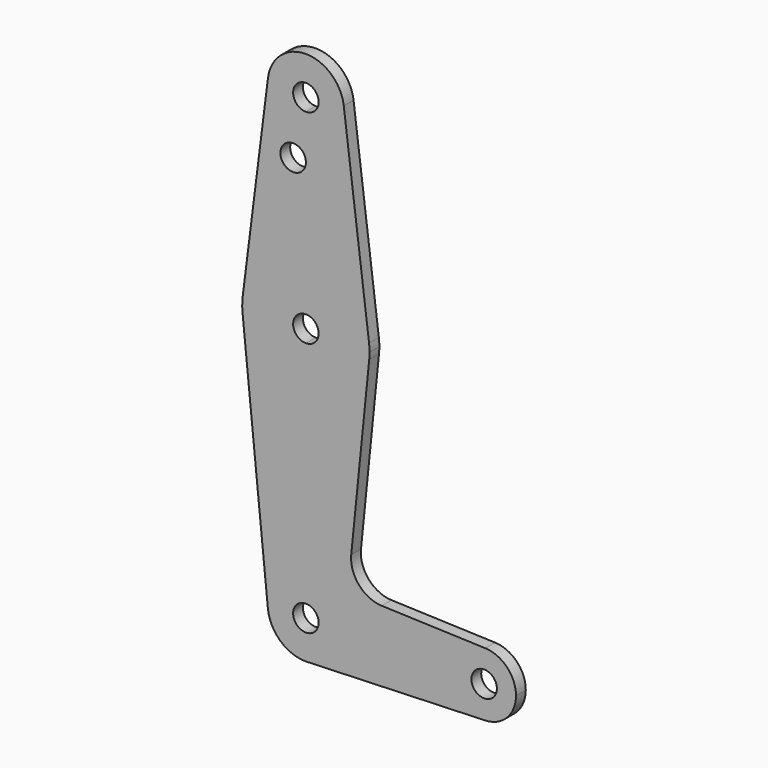
from build123d import *

# Parameters (mm, degrees)
F0_R     = 3.175
F1_DEPTH = 3.048


with BuildPart() as f1:
    # F0 (on Front) → F1 (new body)
    with BuildSketch(Plane.XZ):
        with BuildLine():
            ThreePointArc((-9.4502929642, 115.490625), (-7.14375, 107.9998046905), (0, 104.775))
            ThreePointArc((0, 104.775), (6.7351920908, 107.5648079092), (9.525, 114.3))
            ThreePointArc((9.525, 114.3), (9.5063048942, 114.896483242), (9.4502929642, 115.490625))
            ThreePointArc((9.4502929642, 115.490625), (0, 123.825), (-9.4502929642, 115.490625))
        make_face()
        with BuildLine():
            ThreePointArc((3.175, 114.3), (2.2450640303, 112.0549359697), (0, 111.125))
            ThreePointArc((0, 111.125), (-2.2450640303, 116.5450640303), (3.175, 114.3))
        make_face(mode=Mode.SUBTRACT)
        with BuildLine():
            ThreePointArc((9.525, 114.3), (6.7351920908, 107.5648079092), (0, 104.775))
            Line((0, 104.775), (0, 100.0252))
            Line((0, 100.0252), (0, 79.375))
            ThreePointArc((0, 79.375), (10.5003255158, 75.40625), (15.7504882737, 65.484375))
            Line((15.7504882737, 65.484375), (9.4502929642, 115.490625))
            ThreePointArc((9.4502929642, 115.490625), (9.5063048942, 114.896483242), (9.525, 114.3))
        make_face()
        with BuildLine():
            Line((0, 100.0252), (0, 104.775))
            ThreePointArc((0, 104.775), (-7.14375, 107.9998046905), (-9.4502929642, 115.490625))
            Line((-9.4502929642, 115.490625), (-15.7504882737, 65.484375))
            ThreePointArc((-15.7504882737, 65.484375), (-10.5003255158, 75.40625), (0, 79.375))
            Line((0, 79.375), (0, 100.0252))
        make_face()
        with Locations((-3.175, 100.0252)):
            Circle(F0_R, mode=Mode.SUBTRACT)
        with BuildLine():
            ThreePointArc((15.7504882737, 65.484375), (10.5003255158, 75.40625), (0, 79.375))
            Line((0, 79.375), (0, 66.675))
            ThreePointArc((0, 66.675), (2.2450640303, 65.7450640303), (3.175, 63.5))
            ThreePointArc((3.175, 63.5), (2.2450640303, 61.2549359697), (0, 60.325))
            Line((0, 60.325), (0, 47.625))
            ThreePointArc((0, 47.625), (10.644756084, 51.722700101), (15.7942028036, 61.9003804205))
            ThreePointArc((15.7942028036, 61.9003804205), (15.8547878338, 62.6991705884), (15.875, 63.5))
            ThreePointArc((15.875, 63.5), (15.8438414904, 64.4941387366), (15.7504882737, 65.484375))
        make_face()
        with BuildLine():
            Line((0, 66.675), (0, 79.375))
            ThreePointArc((0, 79.375), (-10.5003255158, 75.40625), (-15.7504882737, 65.484375))
            ThreePointArc((-15.7504882737, 65.484375), (-15.8737438155, 63.6997054867), (-15.7954255641, 61.9125))
            ThreePointArc((-15.7954255641, 61.9125), (-10.6492737428, 51.7267849017), (0, 47.625))
            Line((0, 47.625), (0, 60.325))
            ThreePointArc((0, 60.325), (-3.175, 63.5), (0, 66.675))
        make_face()
        with BuildLine():
            ThreePointArc((0, 47.625), (-10.6492737428, 51.7267849017), (-15.7954255641, 61.9125))
            Line((-15.7954255641, 61.9125), (-9.4772553384, -0.9525))
            ThreePointArc((-9.4772553384, -0.9525), (-7.063929059, 6.3895642457), (0, 9.525))
            Line((0, 9.525), (0, 47.625))
        make_face()
        with BuildLine():
            ThreePointArc((15.7942028036, 61.9003804205), (10.644756084, 51.722700101), (0, 47.625))
            Line((0, 47.625), (0, 9.525))
            ThreePointArc((0, 9.525), (6.7351920908, 6.7351920908), (9.525, 0))
            Line((9.525, 0), (36.5125, 0))
            ThreePointArc((36.5125, 0), (38.9380895153, 5.7116327839), (44.7324052746, 7.9324746146))
            Line((44.7324052746, 7.9324746146), (18.9341027877, 8.850924033))
            ThreePointArc((18.9341027877, 8.850924033), (13.2249738114, 11.5709798305), (11.3072231466, 17.5971800924))
            Line((11.3072231466, 17.5971800924), (15.7942028036, 61.9003804205))
        make_face()
        with BuildLine():
            ThreePointArc((0, 9.525), (-7.063929059, 6.3895642457), (-9.4772553384, -0.9525))
            ThreePointArc((-9.4772553384, -0.9525), (-6.3895642457, -7.063929059), (0, -9.525))
            Line((0, -9.525), (0.6773435479, -9.500885786))
            ThreePointArc((0.6773435479, -9.500885786), (6.9705567315, -6.4912990883), (9.525, 0))
            Line((9.525, 0), (3.175, 0))
            ThreePointArc((3.175, 0), (-2.2450640303, -2.2450640303), (0, 3.175))
            Line((0, 3.175), (0, 9.525))
        make_face()
        with BuildLine():
            Line((0.6773435479, -9.500885786), (0, -9.525))
            ThreePointArc((0, -9.525), (0.3388863295, -9.5189695375), (0.6773435479, -9.500885786))
        make_face()
        with BuildLine():
            Line((36.5125, 0), (9.525, 0))
            ThreePointArc((9.525, 0), (6.9705567315, -6.4912990883), (0.6773435479, -9.500885786))
            Line((0.6773435479, -9.500885786), (44.7324052746, -7.9324746146))
            ThreePointArc((44.7324052746, -7.9324746146), (38.9380895153, -5.7116327839), (36.5125, 0))
        make_face()
        with BuildLine():
            ThreePointArc((44.7324052746, 7.9324746146), (38.9380895153, 5.7116327839), (36.5125, 0))
            ThreePointArc((36.5125, 0), (38.9380895153, -5.7116327839), (44.7324052746, -7.9324746146))
            ThreePointArc((44.7324052746, -7.9324746146), (50.1616327839, -5.5119104847), (52.3875, 0))
            ThreePointArc((52.3875, 0), (50.1616327839, 5.5119104847), (44.7324052746, 7.9324746146))
        make_face()
        with BuildLine():
            ThreePointArc((47.625, 0), (44.45, -3.175), (41.275, 0))
            ThreePointArc((41.275, 0), (44.45, 3.175), (47.625, 0))
        make_face(mode=Mode.SUBTRACT)
        with BuildLine():
            ThreePointArc((9.525, 0), (6.7351920908, 6.7351920908), (0, 9.525))
            Line((0, 9.525), (0, 3.175))
            ThreePointArc((0, 3.175), (2.2450640303, 2.2450640303), (3.175, 0))
            Line((3.175, 0), (9.525, 0))
        make_face()
    extrude(amount=F1_DEPTH)


solid = f1.part
